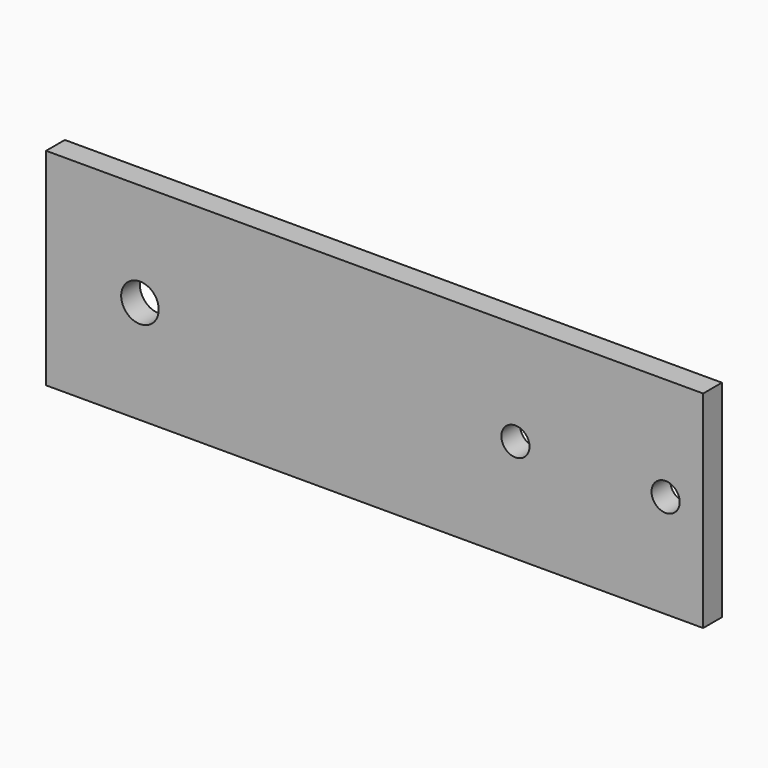
from build123d import *

# Parameters (mm, degrees)
F0_W     = 140
F0_H     = 44
F0_R     = 4
F0_R_2   = 3
F1_DEPTH = 5


with BuildPart() as f1:
    # F0 (on Front) → F1 (new body)
    with BuildSketch(Plane.XZ):
        with Locations((-70, 22)):
            Rectangle(F0_W, F0_H)
        with Locations((-120, 22)):
            Circle(F0_R, mode=Mode.SUBTRACT)
        with Locations((-40, 22)):
            Circle(F0_R_2, mode=Mode.SUBTRACT)
        with Locations((-8, 22)):
            Circle(F0_R_2, mode=Mode.SUBTRACT)
    extrude(amount=F1_DEPTH)


solid = f1.part
